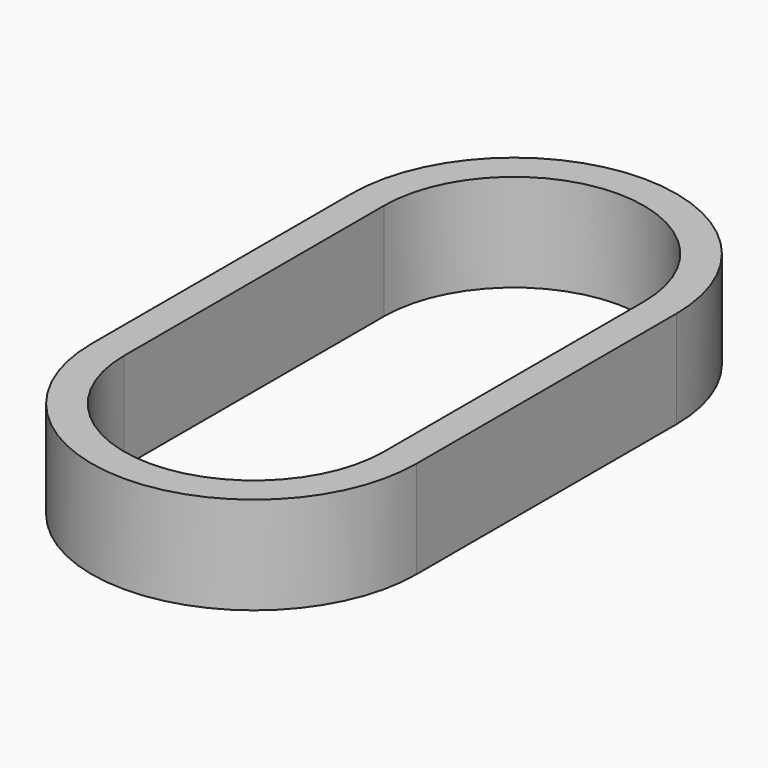
from build123d import *

# Parameters (mm, degrees)
F1_DEPTH = 30
F3_DEPTH = 30.001


with BuildPart() as f1:
    # F0 (on Top) → F1 (new body)
    with BuildSketch(Plane.XY):
        with BuildLine():
            Line((42.51748, 23.170976), (42.51748, 123.171756))
            ThreePointArc((42.51748, 123.171756), (-7.48252, 173.171756), (-57.48252, 123.171756))
            Line((-57.48252, 123.171756), (-57.48252, 23.170976))
            ThreePointArc((-57.48252, 23.170976), (-7.48252, -26.829024), (42.51748, 23.170976))
        make_face()
    extrude(amount=-F1_DEPTH)

    # F2 (on face) → F3 (cut, through all)
    with BuildSketch(Plane.XY):
        with BuildLine():
            ThreePointArc((-47.48252, 23.170976), (-7.48252, -16.829024), (32.51748, 23.170976))
            Line((32.51748, 23.170976), (32.51748, 123.171756))
            ThreePointArc((32.51748, 123.171756), (-7.48252, 163.171756), (-47.48252, 123.171756))
            Line((-47.48252, 123.171756), (-47.48252, 23.170976))
        make_face()
    extrude(amount=-F3_DEPTH, mode=Mode.SUBTRACT)


solid = f1.part
